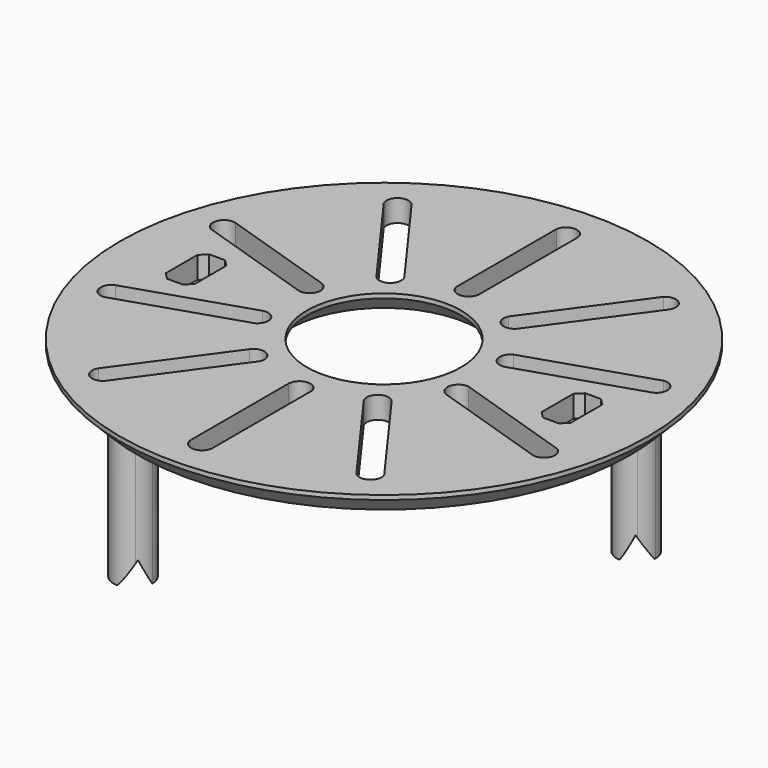
from build123d import *

# Parameters (mm, degrees)
F0_R          = 22.225
F1_DEPTH      = 6.35
F2_SIZE       = 1.905
F4_DEPTH      = 50.8
F8_DEPTH      = 25.4
F8_DEPTH_BACK = 25.4
F9_SIZE       = 5.08
F10_SIZE      = 5.08


with BuildPart() as f1:
    # F0 (on Top) → F1 (new body)
    with BuildSketch(Plane.XY):
        with BuildLine():
            ThreePointArc((-76.2, 0), (0, -76.2), (76.2, 0))
            ThreePointArc((76.2, 0), (0, 76.2), (-76.2, 0))
        make_face()
        with BuildLine():
            ThreePointArc((-36.3505191374, -55.3531540115), (-40.5694607495, -55.5302656455), (-41.2330473061, -51.3600750337))
            Line((-41.2330473061, -51.3600750337), (-20.5013866713, -22.8161053906))
            ThreePointArc((-20.5013866713, -22.8161053906), (-16.2954133846, -21.961508124), (-15.0808678012, -26.0779904576))
            Line((-15.0808678012, -26.0779904576), (-36.3505191374, -55.3531540115))
        make_face(mode=Mode.SUBTRACT)
        with BuildLine():
            ThreePointArc((3.1275798593, -66.1479413497), (-0.1815119967, -68.7710593314), (-3.1695413391, -65.7873506482))
            Line((-3.1695413391, -65.7873506482), (-3.174999962, -30.5090297434))
            ThreePointArc((-3.174999962, -30.5090297434), (-0.2746157651, -27.3454369619), (3.1275798593, -29.9618491446))
            Line((3.1275798593, -29.9618491446), (3.1275798593, -66.1479413497))
        make_face(mode=Mode.SUBTRACT)
        with BuildLine():
            ThreePointArc((-61.9439553323, -23.4153432254), (-65.4612544013, -21.0787978873), (-63.546930662, -17.314996421))
            Line((-63.546930662, -17.314996421), (-29.9969404887, -6.4082042695))
            ThreePointArc((-29.9969404887, -6.4082042695), (-26.0919169519, -8.189029627), (-27.5289365415, -12.233225774))
            Line((-27.5289365415, -12.233225774), (-61.9439553323, -23.4153432254))
        make_face(mode=Mode.SUBTRACT)
        with BuildLine():
            ThreePointArc((41.4110496523, -51.6764633782), (40.2757681695, -55.743645795), (36.1046216907, -55.086094345))
            Line((36.1046216907, -55.086094345), (15.3641288185, -26.548541698))
            ThreePointArc((15.3641288185, -26.548541698), (15.8510757428, -22.2843383176), (20.1413983161, -22.4012998243))
            Line((20.1413983161, -22.4012998243), (41.4110496523, -51.6764633782))
        make_face(mode=Mode.SUBTRACT)
        with BuildLine():
            ThreePointArc((63.8769059879, -17.4663328146), (65.349073818, -21.4240542218), (61.5880463856, -23.3438223094))
            Line((61.5880463856, -23.3438223094), (28.0346825979, -12.4474130757))
            ThreePointArc((28.0346825979, -12.4474130757), (25.9221950752, -8.7113798527), (29.4618871971, -6.2842153632))
            Line((29.4618871971, -6.2842153632), (63.8769059879, -17.4663328146))
        make_face(mode=Mode.SUBTRACT)
        Polygon((-58.42, -7.62), (-58.42, 0), (-58.42, 7.62), (-50.038, 7.62), (-50.038, -7.62), align=None, mode=Mode.SUBTRACT)
        with BuildLine():
            ThreePointArc((-63.8769059879, 17.4663328146), (-65.349073818, 21.4240542218), (-61.5880463856, 23.3438223094))
            Line((-61.5880463856, 23.3438223094), (-28.0346825979, 12.4474130757))
            ThreePointArc((-28.0346825979, 12.4474130757), (-25.9221950752, 8.7113798527), (-29.4618871971, 6.2842153632))
            Line((-29.4618871971, 6.2842153632), (-63.8769059879, 17.4663328146))
        make_face(mode=Mode.SUBTRACT)
        with BuildLine():
            ThreePointArc((-41.4110496523, 51.6764633782), (-40.2757681695, 55.743645795), (-36.1046216907, 55.086094345))
            Line((-36.1046216907, 55.086094345), (-15.3641288185, 26.548541698))
            ThreePointArc((-15.3641288185, 26.548541698), (-15.8510757428, 22.2843383176), (-20.1413983161, 22.4012998243))
            Line((-20.1413983161, 22.4012998243), (-41.4110496523, 51.6764633782))
        make_face(mode=Mode.SUBTRACT)
        Circle(F0_R, mode=Mode.SUBTRACT)
        Polygon((58.42, 7.62), (58.42, 0), (58.42, -7.62), (50.038, -7.62), (50.038, 7.62), align=None, mode=Mode.SUBTRACT)
        with BuildLine():
            ThreePointArc((61.9439553323, 23.4153432254), (65.4612544013, 21.0787978873), (63.546930662, 17.314996421))
            Line((63.546930662, 17.314996421), (29.9969404887, 6.4082042695))
            ThreePointArc((29.9969404887, 6.4082042695), (26.0919169519, 8.189029627), (27.5289365415, 12.233225774))
            Line((27.5289365415, 12.233225774), (61.9439553323, 23.4153432254))
        make_face(mode=Mode.SUBTRACT)
        with BuildLine():
            ThreePointArc((3.174999962, 30.5090297434), (0.2746157651, 27.3454369619), (-3.1275798593, 29.9618491446))
            Line((-3.1275798593, 29.9618491446), (-3.1275798593, 66.1479413497))
            ThreePointArc((-3.1275798593, 66.1479413497), (0.1815119967, 68.7710593314), (3.1695413391, 65.7873506482))
            Line((3.1695413391, 65.7873506482), (3.174999962, 30.5090297434))
        make_face(mode=Mode.SUBTRACT)
        with BuildLine():
            ThreePointArc((36.3505191374, 55.3531540115), (40.5694607495, 55.5302656455), (41.2330473061, 51.3600750337))
            Line((41.2330473061, 51.3600750337), (20.5013866713, 22.8161053906))
            ThreePointArc((20.5013866713, 22.8161053906), (16.2954133846, 21.961508124), (15.0808678012, 26.0779904576))
            Line((15.0808678012, 26.0779904576), (36.3505191374, 55.3531540115))
        make_face(mode=Mode.SUBTRACT)
    extrude(amount=F1_DEPTH)

    # F2
    f2_edges = [f1.edges().sort_by_distance(p)[0] for p in [
        (58.42, 7.62, 3.175),
        (50.038, 7.62, 3.175),
        (58.42, -7.62, 3.175),
        (50.038, -7.62, 3.175),
        (-50.038, 7.62, 3.175),
        (-58.42, 7.62, 3.175),
        (-50.038, -7.62, 3.175),
        (-58.42, -7.62, 3.175),
    ]]
    chamfer(f2_edges, length=F2_SIZE)

    # F3 (on face) → F4 (join)
    with BuildSketch(Plane(origin=(0, 0, 0), x_dir=(1, 0, 0), z_dir=(0, 0, -1))):
        with BuildLine():
            ThreePointArc((-36.407482317, 44.0524429667), (-40.3640168655, 45.6764662753), (-44.310067169, 44.0271317603))
            Line((-44.310067169, 44.0271317603), (-40.5403775713, 40.2815129604))
            ThreePointArc((-40.5403775713, 40.2815129604), (-38.5201020718, 42.2175820764), (-36.407482317, 44.0524429667))
        make_face()
        with BuildLine():
            Line((-40.5403775713, 40.2815129604), (-36.3821711106, 36.1498581148))
            ThreePointArc((-36.3821711106, 36.1498581148), (-35.1800623463, 37.9583303415), (-34.7581191398, 40.0884949375))
            ThreePointArc((-34.7581191398, 40.0884949375), (-35.1869115182, 42.2351948973), (-36.407482317, 44.0524429667))
            ThreePointArc((-36.407482317, 44.0524429667), (-38.5201020718, 42.2175820764), (-40.5403775713, 40.2815129604))
        make_face()
        with BuildLine():
            Line((40.4111525448, -40.4111525448), (36.4618960058, -36.4618960058))
            ThreePointArc((36.4618960058, -36.4618960058), (34.9572040364, -40.2442749258), (36.4178321079, -44.0438872554))
            ThreePointArc((36.4178321079, -44.0438872554), (38.457410353, -42.2746979757), (40.4111525448, -40.4111525448))
        make_face()
        with BuildLine():
            ThreePointArc((36.4178321079, -44.0438872554), (40.3228976199, -45.8603299081), (44.359963556, -44.359963556))
            Line((44.359963556, -44.359963556), (40.4111525448, -40.4111525448))
            ThreePointArc((40.4111525448, -40.4111525448), (38.457410353, -42.2746979757), (36.4178321079, -44.0438872554))
        make_face()
        with BuildLine():
            ThreePointArc((-44.2847559626, 36.1245469084), (-40.3282214141, 34.5005235998), (-36.3821711106, 36.1498581148))
            Line((-36.3821711106, 36.1498581148), (-40.5403775713, 40.2815129604))
            ThreePointArc((-40.5403775713, 40.2815129604), (-42.4634656081, 38.248876958), (-44.2847559626, 36.1245469084))
        make_face()
        with BuildLine():
            Line((-40.5403775713, 40.2815129604), (-44.310067169, 44.0271317603))
            ThreePointArc((-44.310067169, 44.0271317603), (-45.9340904775, 40.0705972119), (-44.2847559626, 36.1245469084))
            ThreePointArc((-44.2847559626, 36.1245469084), (-42.4634656081, 38.248876958), (-40.5403775713, 40.2815129604))
        make_face()
        with BuildLine():
            ThreePointArc((46.1331096706, -40.2767498912), (45.6501506831, -38.004240208), (44.2847559626, -36.1245469084))
            ThreePointArc((44.2847559626, -36.1245469084), (42.4021576862, -38.3168308131), (40.4111525448, -40.4111525448))
            Line((40.4111525448, -40.4111525448), (44.359963556, -44.359963556))
            ThreePointArc((44.359963556, -44.359963556), (45.6706900042, -42.5025464327), (46.1331096706, -40.2767498912))
        make_face()
        with BuildLine():
            ThreePointArc((40.4111525448, -40.4111525448), (42.4021576862, -38.3168308131), (44.2847559626, -36.1245469084))
            ThreePointArc((44.2847559626, -36.1245469084), (40.3043593055, -34.6939384792), (36.4618960058, -36.4618960058))
            Line((36.4618960058, -36.4618960058), (40.4111525448, -40.4111525448))
        make_face()
    extrude(amount=F4_DEPTH)

    # F7 (on face) → F8 (cut, two sides)
    with BuildSketch(Plane(origin=(0, 0, 0), x_dir=(-0.7071067812, -0.7071067812, 0), z_dir=(-0.7071067812, 0.7071067812, 0))) as f8_sk:
        Polygon((62.0108805597, -54.0438257158), (62.0108805597, -52.6354536414), (56.3773885369, -43.801125139), (51.3840802014, -54.0438257158), align=None)
        Polygon((-51.3840802014, -54.0438257158), (-56.3773885369, -43.801125139), (-62.0108805597, -52.6354536414), (-62.0108805597, -54.0438257158), align=None)
    extrude(amount=-F8_DEPTH, mode=Mode.SUBTRACT)
    extrude(f8_sk.sketch, amount=F8_DEPTH_BACK, mode=Mode.SUBTRACT)

    # F9
    f9_edges = [f1.edges().sort_by_distance(p)[0] for p in [
        (-76.2, 0, 0),
    ]]
    chamfer(f9_edges, length=F9_SIZE)

    # F10
    f10_edges = [f1.edges().sort_by_distance(p)[0] for p in [
        (-22.225, 0, 0),
    ]]
    chamfer(f10_edges, length=F10_SIZE)


solid = f1.part
